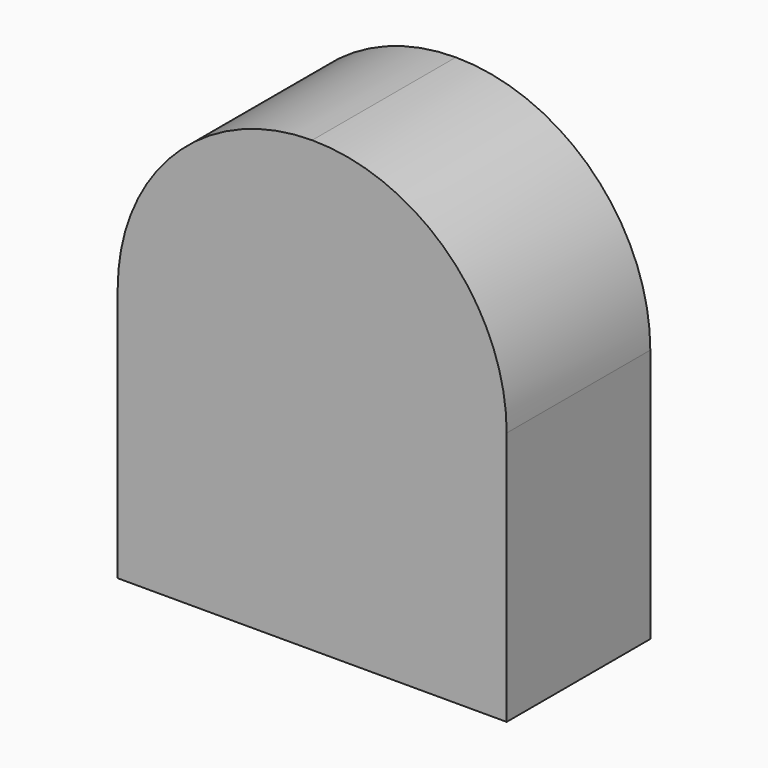
from build123d import *

# Parameters (mm, degrees)
F3_DEPTH = 60


with BuildPart() as f3:
    # F0 (on Front) → F3 (new body)
    with BuildSketch(Plane.XZ):
        with BuildLine():
            Line((-65, 85), (-65, 0))
            Line((-65, 0), (65, 0))
            Line((65, 0), (65, 85))
            ThreePointArc((65, 85), (45.9619407771, 130.9619407771), (0, 150))
            ThreePointArc((0, 150), (-45.9619407771, 130.9619407771), (-65, 85))
        make_face()
    extrude(amount=F3_DEPTH)


solid = f3.part
